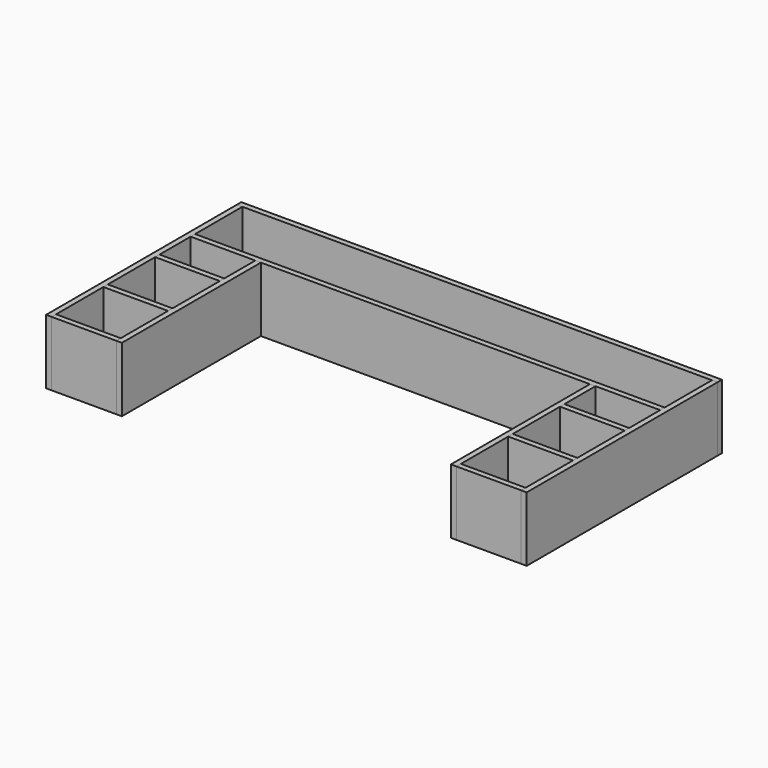
from build123d import *

# Parameters (mm, degrees)
F0_W     = 350
F0_H     = 30
F1_DEPTH = 350
F2_DEPTH = 350


with BuildPart() as f1:
    # F0 (on Top) → F1 (new body)
    with BuildSketch(Plane.XY):
        with Locations((-1095, -180)):
            Rectangle(F0_W, F0_H)
    extrude(amount=F1_DEPTH)


with BuildPart() as f1b:
    # F0 (on Top) → F1, piece 2 (new body)
    with BuildSketch(Plane.XY):
        with Locations((-1095, 170)):
            Rectangle(F0_W, F0_H)
    extrude(amount=F1_DEPTH)


with BuildPart() as f1c:
    # F0 (on Top) → F1, piece 3 (new body)
    with BuildSketch(Plane.XY):
        with Locations((-1095, 520)):
            Rectangle(F0_W, F0_H)
    extrude(amount=F1_DEPTH)


with BuildPart() as f1d:
    # F0 (on Top) → F1, piece 4 (new body)
    with BuildSketch(Plane.XY):
        Polygon((1270, 745), (1270, 775), (-1270, 775), (-1270, 745), (-920, 745), (-890, 745), (890, 745), (920, 745), align=None)
    extrude(amount=F1_DEPTH)


with BuildPart() as f1e:
    # F0 (on Top) → F1, piece 5 (new body)
    with BuildSketch(Plane.XY):
        Polygon((1300, 1095), (1300, 1125), (-1300, 1125), (-1300, 1095), (-1270, 1095), (1270, 1095), align=None)
    extrude(amount=F1_DEPTH)


with BuildPart() as f1f:
    # F0 (on Top) → F1, piece 6 (new body)
    with BuildSketch(Plane.XY):
        with Locations((1095, 520)):
            Rectangle(F0_W, F0_H)
    extrude(amount=F1_DEPTH)


with BuildPart() as f1g:
    # F0 (on Top) → F1, piece 7 (new body)
    with BuildSketch(Plane.XY):
        with Locations((1095, 170)):
            Rectangle(F0_W, F0_H)
    extrude(amount=F1_DEPTH)


with BuildPart() as f1h:
    # F0 (on Top) → F1, piece 8 (new body)
    with BuildSketch(Plane.XY):
        with Locations((1095, -180)):
            Rectangle(F0_W, F0_H)
    extrude(amount=F1_DEPTH)


with BuildPart() as f2:
    # F0 (on Top) → F2 (new body)
    with BuildSketch(Plane.XY):
        Polygon((-1270, 1095), (-1300, 1095), (-1300, -195), (-1270, -195), (-1270, -165), (-1270, 155), (-1270, 185), (-1270, 505), (-1270, 535), (-1270, 745), (-1270, 775), align=None)
    extrude(amount=F2_DEPTH)


with BuildPart() as f2b:
    # F0 (on Top) → F2, piece 2 (new body)
    with BuildSketch(Plane.XY):
        Polygon((-920, -165), (-920, -195), (-890, -195), (-890, 745), (-920, 745), (-920, 535), (-920, 505), (-920, 185), (-920, 155), align=None)
    extrude(amount=F2_DEPTH)


with BuildPart() as f2c:
    # F0 (on Top) → F2, piece 3 (new body)
    with BuildSketch(Plane.XY):
        Polygon((890, -195), (920, -195), (920, -165), (920, 155), (920, 185), (920, 505), (920, 535), (920, 745), (890, 745), align=None)
    extrude(amount=F2_DEPTH)


with BuildPart() as f2d:
    # F0 (on Top) → F2, piece 4 (new body)
    with BuildSketch(Plane.XY):
        Polygon((1300, -195), (1300, 1095), (1270, 1095), (1270, 775), (1270, 745), (1270, 535), (1270, 505), (1270, 185), (1270, 155), (1270, -165), (1270, -195), align=None)
    extrude(amount=F2_DEPTH)


solid = Compound([f1.part, f1b.part, f1c.part, f1d.part, f1e.part, f1f.part, f1g.part, f1h.part, f2.part, f2b.part, f2c.part, f2d.part])
